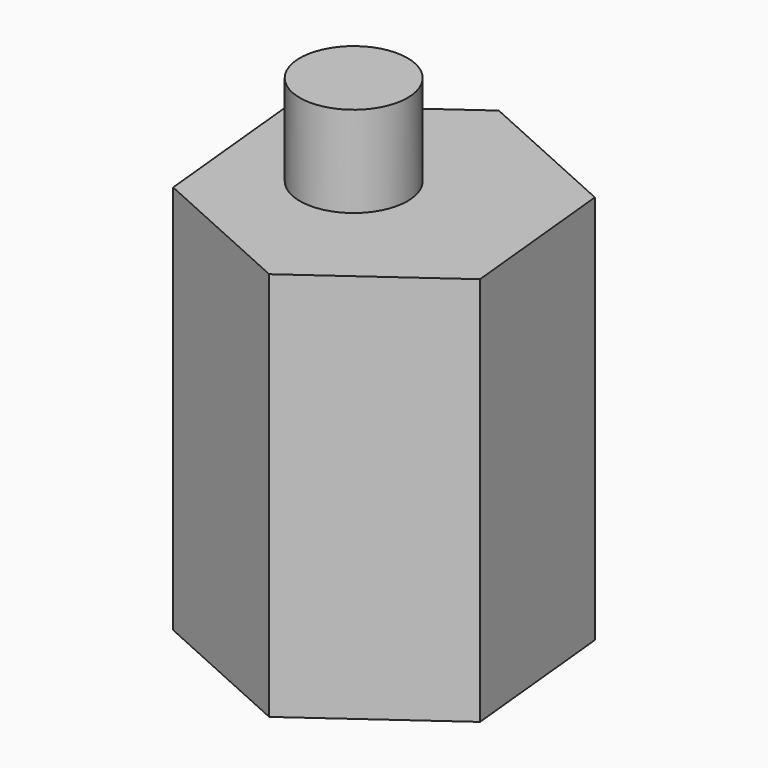
from build123d import *

# Parameters (mm, degrees)
F1_DEPTH = 79.502
F2_R     = 10.991393
F3_DEPTH = 18.542


with BuildPart() as f1:
    # F0 (on Top) → F1 (new body)
    with BuildSketch(Plane.XY):
        Polygon((-3.346141, 33.461411), (-30.651503, 13.832863), (-27.305362, -19.628549), (3.346141, -33.461411), (30.651503, -13.832863), (27.305362, 19.628549), align=None)
    extrude(amount=-F1_DEPTH)

    # F2 (on Top) → F3 (join)
    with BuildSketch(Plane.XY):
        with Locations((-6.179641, 0)):
            Circle(F2_R)
    extrude(amount=F3_DEPTH)


solid = f1.part
